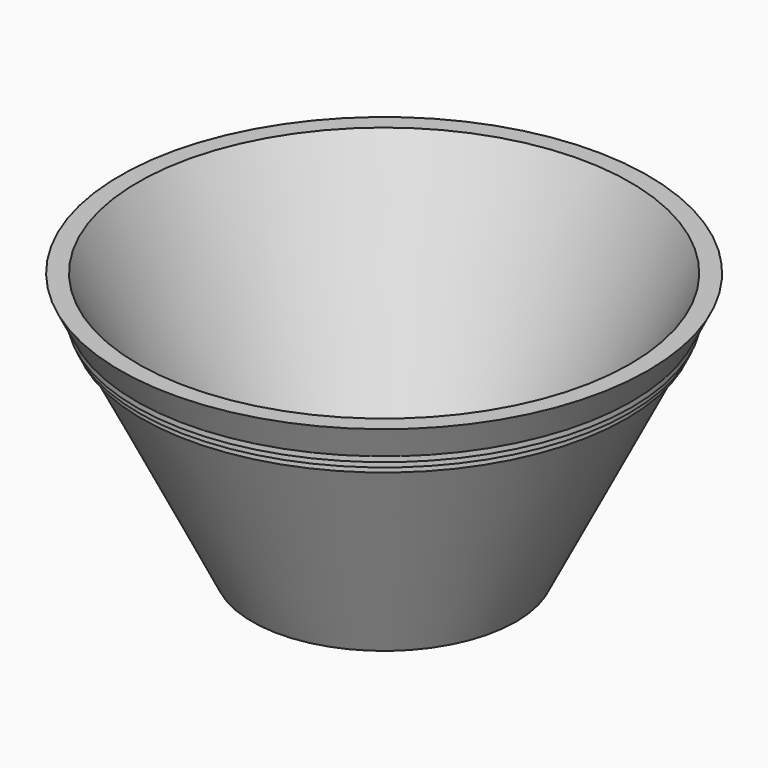
from build123d import *


with BuildPart() as f1:
    # F0 (on Front) → F1 (revolve)
    with BuildSketch(Plane.XZ):
        Polygon((0, 3.0734), (0, 0), (25.4, 0), (46.035527, 41.271053), (46.613301, 42.426601), (47.191074, 43.582149), (47.685844, 44.571688), (50.8, 50.8), (47.363834, 50.8), (23.500534, 3.0734), align=None)
        Polygon((47.191074, 43.582149), (46.613301, 42.426601), (47.191074, 42.426601), align=None)
        Polygon((47.685844, 44.571688), (47.191074, 43.582149), (47.685844, 43.582149), align=None)
        Polygon((46.613301, 42.426601), (46.035527, 41.271053), (46.613301, 41.271053), align=None)
    revolve(axis=Axis((0, 0, 25.4), (0, 0, 1)))


solid = f1.part
